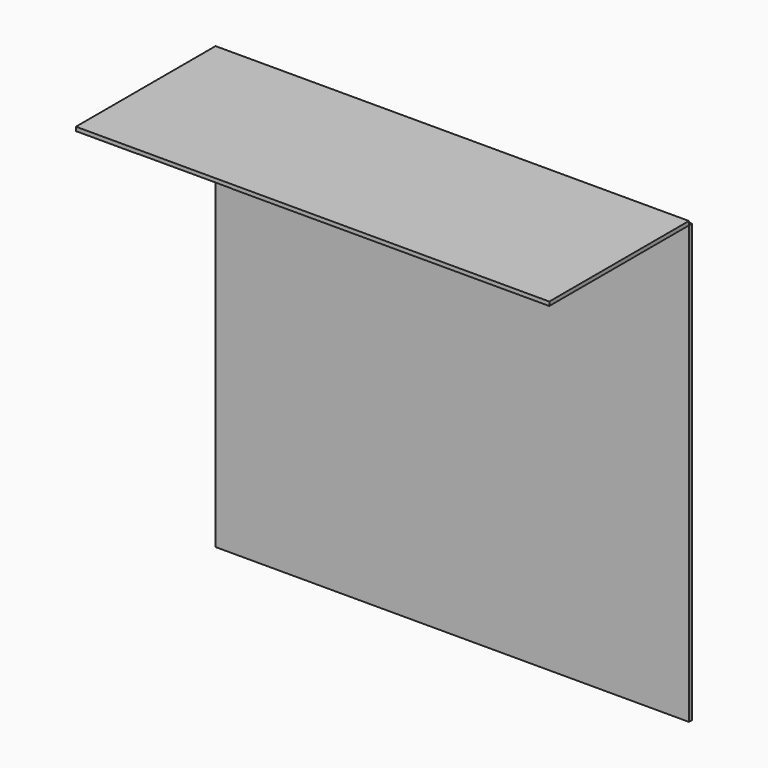
from build123d import *

# Parameters (mm, degrees)
F0_W     = 3000
F0_H     = 2770
F1_DEPTH = 25
F2_W     = 2010.242724
F2_H     = 1105.960011
F2_W_2   = 600
F2_W_3   = 389.757276
F3_DEPTH = 25
F4_DEPTH = 1


with BuildPart() as f1:
    # F0 (on Front) → F1 (new body)
    with BuildSketch(Plane.XZ):
        Rectangle(F0_W, F0_H)
    extrude(amount=-F1_DEPTH)


with BuildPart() as f3:
    # F2 (on face) → F3 (new body)
    with BuildSketch(Plane.XY.offset(1385)):
        with Locations((494.878638, -552.980005)):
            Rectangle(F2_W, F2_H)
        with Locations((-810.242724, -552.980005)):
            Rectangle(F2_W_2, F2_H)
        with Locations((-1305.121362, -552.980005)):
            Rectangle(F2_W_3, F2_H)
    extrude(amount=F3_DEPTH)

    # F2 (on face) → F4 (cut)
    with BuildSketch(Plane.XY.offset(1385)):
        with Locations((-810.242724, -552.980005)):
            Rectangle(F2_W_2, F2_H)
    extrude(amount=F4_DEPTH, mode=Mode.SUBTRACT)


solid = Compound([f1.part, f3.part])
